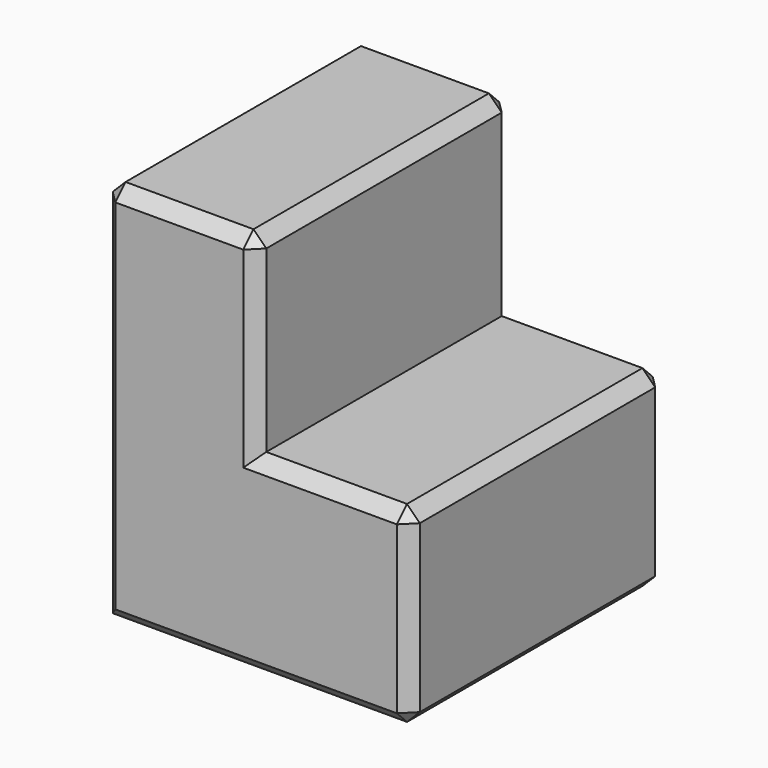
from build123d import *

# Parameters (mm, degrees)
F1_DEPTH = 25
F2_SIZE  = 1


with BuildPart() as f1:
    # F0 (on Front) → F1 (new body)
    with BuildSketch(Plane.XZ):
        Polygon((12, 0), (0, 0), (0, 15), (-12, 15), (-12, -15), (12, -15), align=None)
    extrude(amount=F1_DEPTH)

    # F2
    f2_edges = [f1.edges().sort_by_distance(p)[0] for p in [
        (6, -25, 0),
        (0, -25, 7.5),
        (-6, -25, 15),
        (-12, -25, 0),
        (0, -25, -15),
        (12, -25, -7.5),
        (6, 0, 0),
        (0, 0, 7.5),
        (-6, 0, 15),
        (-12, 0, 0),
        (0, 0, -15),
        (12, 0, -7.5),
        (0, -12.5, 15),
        (-12, -12.5, 15),
        (12, -12.5, -15),
        (12, -12.5, 0),
    ]]
    chamfer(f2_edges, length=F2_SIZE)


solid = f1.part
